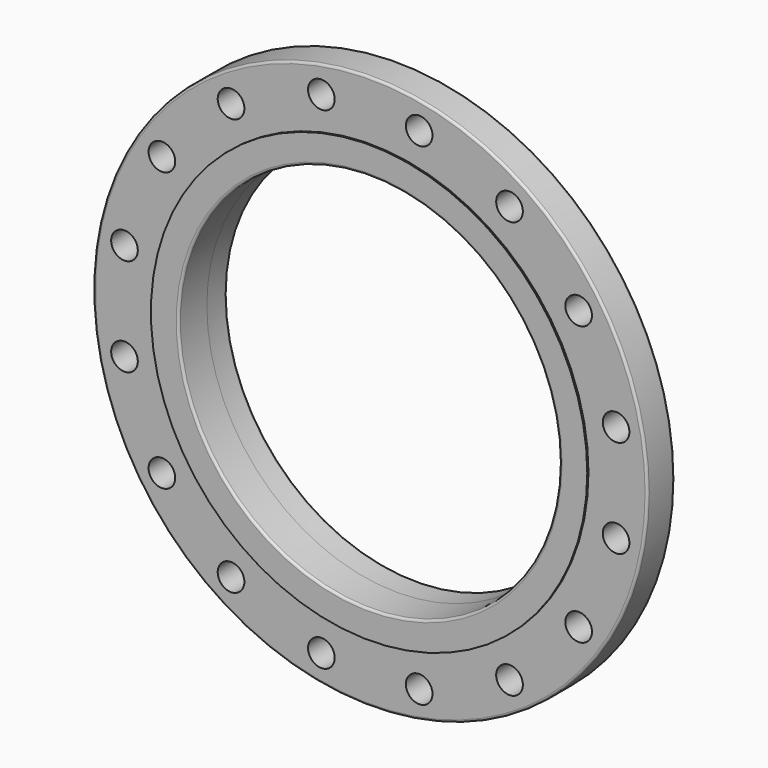
from build123d import *

# Parameters (mm, degrees)
F0_R     = 298.45
F0_R_2   = 14.351
F0_R_3   = 205.232
F1_DEPTH = 36.576
F2_R     = 234.95
F2_R_2   = 205.232
F3_DEPTH = 1.5875
F4_R     = 228.6
F4_R_2   = 205.232
F5_DEPTH = 26.924
F6_R     = 2.54


with BuildPart() as f1:
    # F0 (on Front) → F1 (new body)
    with BuildSketch(Plane.XZ):
        Circle(F0_R)
        with Locations((-149.934517, -224.392862)):
            Circle(F0_R_2, mode=Mode.SUBTRACT)
        with Locations((-224.392862, -149.934517)):
            Circle(F0_R_2, mode=Mode.SUBTRACT)
        with Locations((-52.650001, -264.689428)):
            Circle(F0_R_2, mode=Mode.SUBTRACT)
        with Locations((-264.689428, -52.650001)):
            Circle(F0_R_2, mode=Mode.SUBTRACT)
        with Locations((52.650001, -264.689428)):
            Circle(F0_R_2, mode=Mode.SUBTRACT)
        with Locations((149.934517, -224.392862)):
            Circle(F0_R_2, mode=Mode.SUBTRACT)
        with Locations((224.392862, -149.934517)):
            Circle(F0_R_2, mode=Mode.SUBTRACT)
        with Locations((264.689428, -52.650001)):
            Circle(F0_R_2, mode=Mode.SUBTRACT)
        with Locations((-264.689428, 52.650001)):
            Circle(F0_R_2, mode=Mode.SUBTRACT)
        with Locations((-224.392862, 149.934517)):
            Circle(F0_R_2, mode=Mode.SUBTRACT)
        with Locations((-149.934517, 224.392862)):
            Circle(F0_R_2, mode=Mode.SUBTRACT)
        with Locations((-52.650001, 264.689428)):
            Circle(F0_R_2, mode=Mode.SUBTRACT)
        Circle(F0_R_3, mode=Mode.SUBTRACT)
        with Locations((264.689428, 52.650001)):
            Circle(F0_R_2, mode=Mode.SUBTRACT)
        with Locations((52.650001, 264.689428)):
            Circle(F0_R_2, mode=Mode.SUBTRACT)
        with Locations((224.392862, 149.934517)):
            Circle(F0_R_2, mode=Mode.SUBTRACT)
        with Locations((149.934517, 224.392862)):
            Circle(F0_R_2, mode=Mode.SUBTRACT)
    extrude(amount=F1_DEPTH)

    # F2 (on face) → F3 (join)
    with BuildSketch(Plane.XZ.offset(36.576)):
        Circle(F2_R)
        Circle(F2_R_2, mode=Mode.SUBTRACT)
    extrude(amount=F3_DEPTH)

    # F4 (on face) → F5 (join)
    with BuildSketch(Plane(origin=(0, 0, 0), x_dir=(-1, 0, 0), z_dir=(0, 1, 0))):
        Circle(F4_R)
        Circle(F4_R_2, mode=Mode.SUBTRACT)
    extrude(amount=F5_DEPTH)

    # F6
    f6_edges = [f1.edges().sort_by_distance(p)[0] for p in [
        (-298.45, 0, 0),
        (205.232, 26.924, 0),
        (-298.45, -36.576, 0),
        (-205.232, -38.1635, 0),
    ]]
    fillet(f6_edges, radius=F6_R)


solid = f1.part
